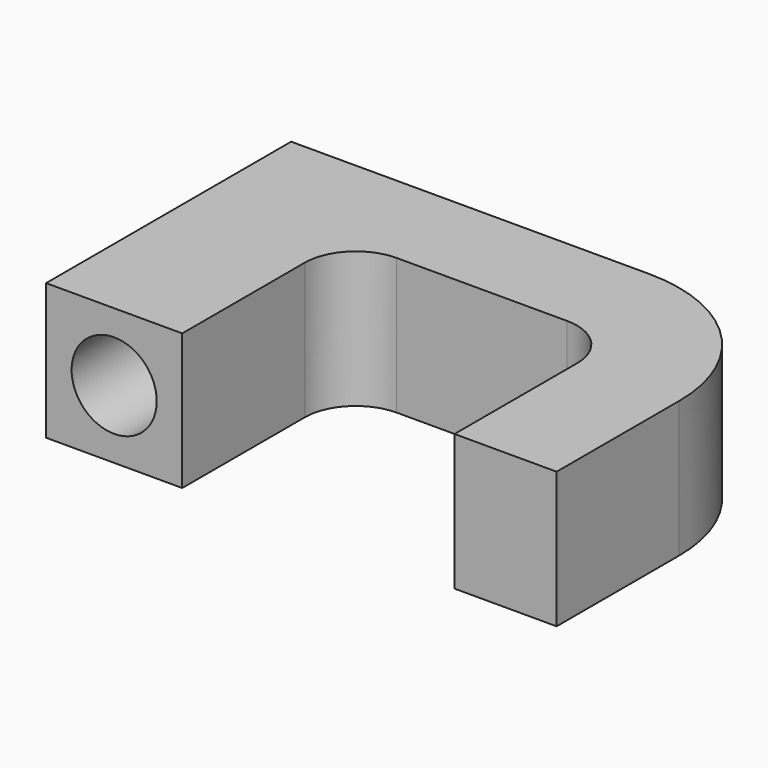
from build123d import *

# Parameters (mm, degrees)
PAD_DEPTH    = 4
SKETCH001_R  = 1.25
POCKET_DEPTH = 9.001


with BuildPart() as part:
    # Sketch → Pad (new body)
    with BuildSketch(Plane.XY):
        with BuildLine():
            Line((0, 0), (4, 0))
            Line((4, 0), (4, 4.5))
            ThreePointArc((5.5, 6), (4.43934, 5.56066), (4, 4.5))
            Line((5.5, 6), (10.5, 6))
            ThreePointArc((12, 4.5), (11.56066, 5.56066), (10.5, 6))
            Line((12, 4.5), (12, 0))
            Line((12, 0), (15, 0))
            Line((15, 0), (15, 4.5))
            ThreePointArc((15, 4.5), (13.681981, 7.681981), (10.5, 9))
            Line((0, 9), (10.5, 9))
            Line((0, 9), (0, 0))
        make_face()
    extrude(amount=PAD_DEPTH)

    # Sketch001 (on Face2 of Pad) → Pocket (cut, through all)
    with BuildSketch(Plane.XZ):
        with Locations((2, 2)):
            Circle(SKETCH001_R)
    extrude(amount=-POCKET_DEPTH, mode=Mode.SUBTRACT)


solid = part.part
